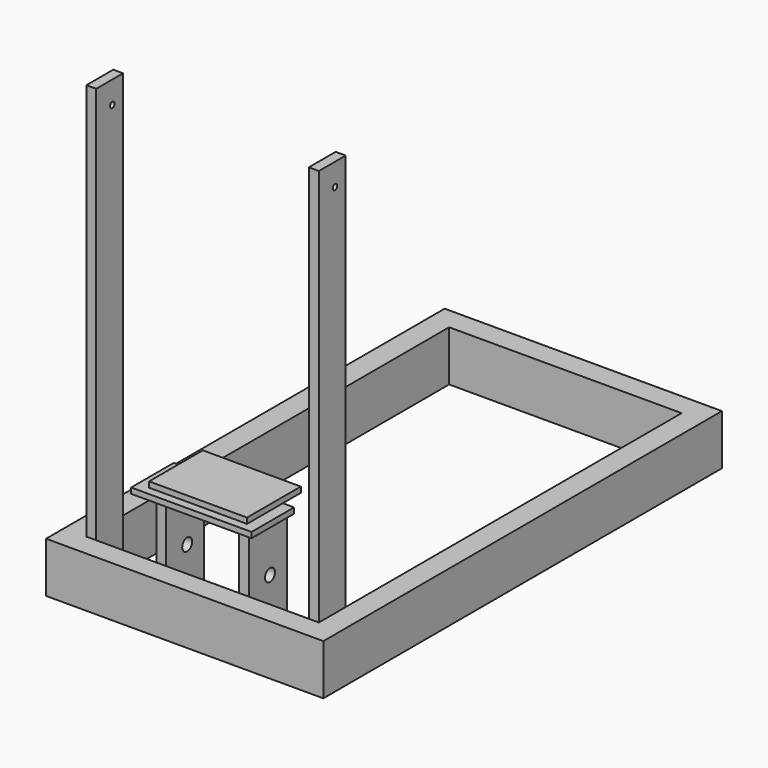
from build123d import *

# Parameters (mm, degrees)
F0_W      = 495.3
F0_H      = 890
F0_W_2    = 415.3
F0_H_2    = 810
F1_DEPTH  = 90
F2_W      = 17.5
F2_H      = 85
F2_W_2    = 18
F3_DEPTH  = 200
F4_W      = 17.5
F4_H      = 60
F4_W_2    = 18
F5_DEPTH  = 800
F6_R      = 5
F7_DEPTH  = 453
F8_R      = 11.1125
F9_DEPTH  = 184
F10_W     = 215
F10_H     = 95
F11_DEPTH = 10
F12_W     = 175
F12_H     = 80
F12_H_2   = 40
F13_DEPTH = 10


with BuildPart() as f1:
    # F0 (on Top) → F1 (new body)
    with BuildSketch(Plane.XY):
        with Locations((247.65, 445)):
            Rectangle(F0_W, F0_H)
        with Locations((247.65, 445)):
            Rectangle(F0_W_2, F0_H_2, mode=Mode.SUBTRACT)
    extrude(amount=F1_DEPTH)

    # F2 (on Top) → F3 (join)
    with BuildSketch(Plane.XY):
        with Locations((173.75, 82.5)):
            Rectangle(F2_W, F2_H)
        with Locations((321.3, 82.5)):
            Rectangle(F2_W_2, F2_H)
    extrude(amount=F3_DEPTH)

    # F4 (on Top) → F5 (join)
    with BuildSketch(Plane.XY):
        with Locations((48.75, 70)):
            Rectangle(F4_W, F4_H)
        with Locations((446.3, 70)):
            Rectangle(F4_W_2, F4_H)
    extrude(amount=F5_DEPTH)

    # F6 (on face) → F7 (cut)
    with BuildSketch(Plane(origin=(40, 0, 0), x_dir=(0, -1, 0), z_dir=(-1, 0, 0))):
        with Locations((-76, 760)):
            Circle(F6_R)
    extrude(amount=-F7_DEPTH, mode=Mode.SUBTRACT)

    # F8 (on face) → F9 (cut)
    with BuildSketch(Plane(origin=(165, 0, 0), x_dir=(0, -1, 0), z_dir=(-1, 0, 0))):
        with Locations((-87, 105)):
            Circle(F8_R)
    extrude(amount=-F9_DEPTH, mode=Mode.SUBTRACT)

    # F10 (on face) → F11 (join)
    with BuildSketch(Plane.XY.offset(200)):
        with Locations((247.5, 62.5)):
            Rectangle(F10_W, F10_H)
    extrude(amount=F11_DEPTH)

    # F12 (on face) → F13 (join)
    with BuildSketch(Plane.XY.offset(210)):
        with Locations((247.5, 70)):
            Rectangle(F12_W, F12_H)
        with Locations((247.5, 130)):
            Rectangle(F12_W, F12_H_2)
    extrude(amount=F13_DEPTH)


solid = f1.part
